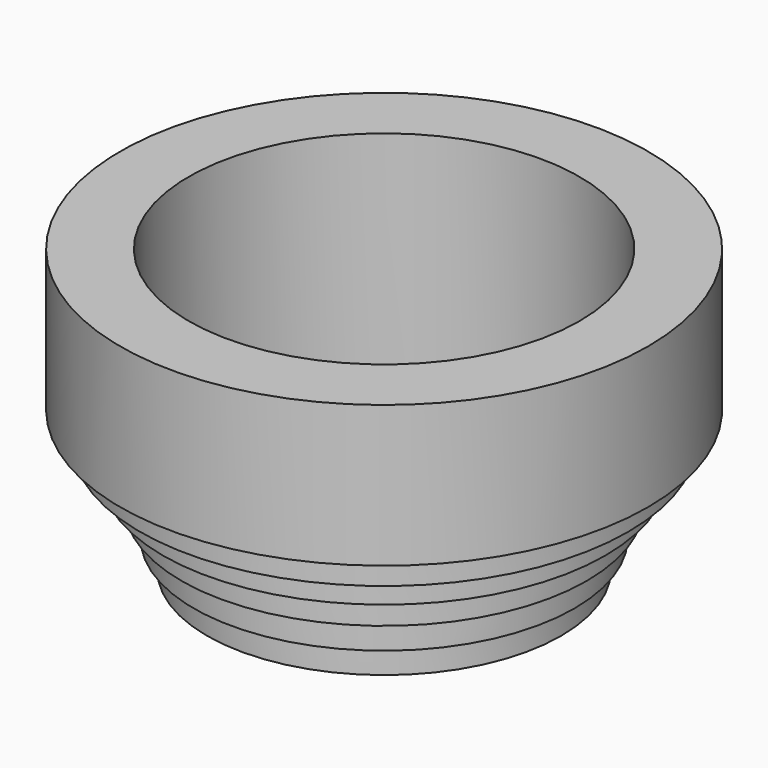
from build123d import *

# Parameters (mm, degrees)
F0_R      = 6.259056
F1_DEPTH  = 1
F2_R      = 6.723109
F3_DEPTH  = 1
F4_R      = 7.160143
F5_DEPTH  = 1
F6_R      = 7.814591
F7_DEPTH  = 1
F8_R      = 8.621206
F9_DEPTH  = 1
F10_R     = 9.327107
F11_DEPTH = 5
F12_R     = 6.905639
F13_DEPTH = 8.128


with BuildPart() as f1:
    # F0 (on Top) → F1 (new body)
    with BuildSketch(Plane.XY):
        Circle(F0_R)
    extrude(amount=F1_DEPTH)

    # F2 (on face) → F3 (join)
    with BuildSketch(Plane.XY.offset(1)):
        Circle(F2_R)
    extrude(amount=F3_DEPTH)

    # F4 (on face) → F5 (join)
    with BuildSketch(Plane.XY.offset(2)):
        Circle(F4_R)
    extrude(amount=F5_DEPTH)

    # F6 (on face) → F7 (join)
    with BuildSketch(Plane.XY.offset(3)):
        Circle(F6_R)
    extrude(amount=F7_DEPTH)

    # F8 (on face) → F9 (join)
    with BuildSketch(Plane.XY.offset(4)):
        Circle(F8_R)
    extrude(amount=F9_DEPTH)

    # F10 (on face) → F11 (join)
    with BuildSketch(Plane.XY.offset(5)):
        Circle(F10_R)
    extrude(amount=F11_DEPTH)

    # F12 (on face) → F13 (cut)
    with BuildSketch(Plane.XY.offset(10)):
        Circle(F12_R)
    extrude(amount=-F13_DEPTH, mode=Mode.SUBTRACT)


solid = f1.part
